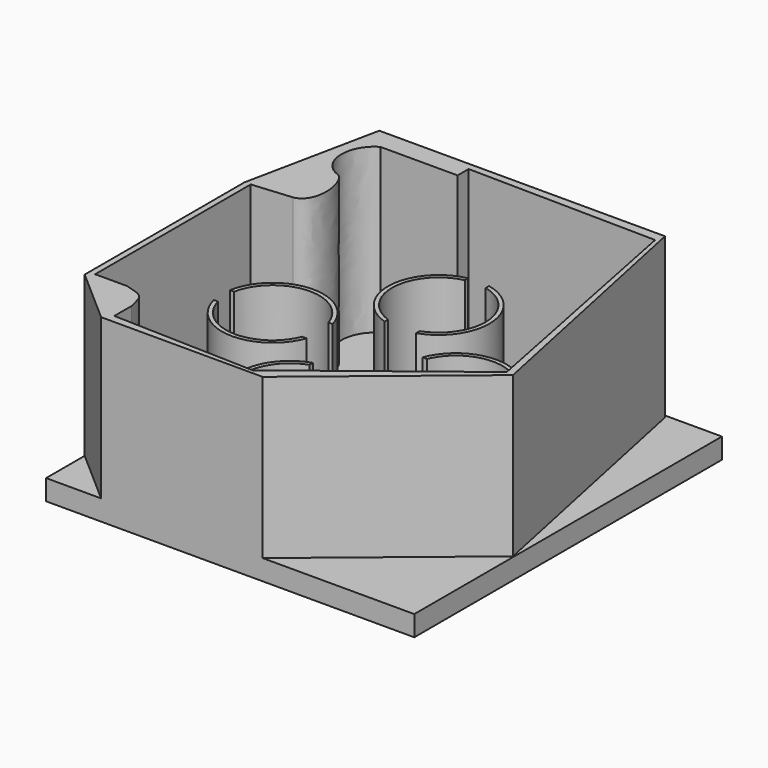
from build123d import *

# Parameters (mm, degrees)
F1_DEPTH  = 220
F3_W      = 450
F3_H      = 470
F4_DEPTH  = 25
F5_DEPTH  = 200
F6_R      = 53.5
F7_DEPTH  = 20
F6_R_2    = 62
F6_R_3    = 57
F8_DEPTH  = 154
F9_W      = 25.5
F9_H      = 90.3576454148
F9_W_2    = 90.3576454148
F9_H_2    = 25.5
F10_DEPTH = 175


with BuildPart() as f1:
    # F0 (on Top) → F1 (new body)
    with BuildSketch(Plane.XY):
        Polygon((-204.7800719738, 171.1511015892), (-238.562181592, 7.3397289511), (-238.562181592, -236.6909831762), (-171.305090189, -295.6561148167), (26.1666476727, -295.6561148167), (210.4326635599, -143.6366438866), (144.4040089846, 171.1511015892), align=None)
    extrude(amount=F1_DEPTH)

    # F3 (on Top) → F4 (join)
    with BuildSketch(Plane.XY):
        with Locations((-13.562181592, -60.6561148167)):
            Rectangle(F3_W, F3_H)
    extrude(amount=F4_DEPTH)

    # F2 (on face) → F5 (cut)
    with BuildSketch(Plane.XY.offset(220)):
        with BuildLine():
            Line((141.9471204281, 159.1738164425), (-88.6924937367, 162.5520288944))
            Line((-88.6924937367, 162.5520288944), (-88.6924937367, 145.6609666348))
            Line((-88.6924937367, 145.6609666348), (-182.9752624035, 145.6609666348))
            add(Edge.make_bspline(
                [(-182.9752624035, 145.6609666348), (-207.5440585613, 131.841018796), (-210.6151580811, 91.9167175889), (-182.9752624035, 77.1754458547)],
                knots=[0, 0, 0, 0, 68.4855207801, 68.4855207801, 68.4855207801, 68.4855207801], degree=3))
            add(Edge.make_bspline(
                [(-182.9752624035, 77.1754458547), (-164.8557782173, 75.025677681), (-155.0282537937, 17.2889921814), (-182.9752624035, 12.0681189001)],
                knots=[0, 0, 0, 0, 65.1073269546, 65.1073269546, 65.1073269546, 65.1073269546], degree=3))
            Line((-182.9752624035, 12.0681189001), (-231.1915457249, 7.7685844153))
            Line((-231.1915457249, 7.7685844153), (-231.1915457249, -229.9345582724))
            Line((-231.1915457249, -229.9345582724), (-191.8814480305, -229.9345582724))
            add(Edge.make_bspline(
                [(-191.8814480305, -229.9345582724), (-168.2339906693, -236.6909831762), (-168.2339906693, -236.6909831762), (-163.0131155252, -259.417116642)],
                knots=[0, 0, 0, 0, 41.2625964967, 41.2625964967, 41.2625964967, 41.2625964967], degree=3))
            Line((-163.0131155252, -259.417116642), (-163.0131155252, -285.8285903931))
            Line((-163.0131155252, -285.8285903931), (10.1969307289, -291.0494506359))
            Line((10.1969307289, -291.0494506359), (201.833575964, -142.4082070589))
            Line((201.833575964, -142.4082070589), (141.9471204281, 159.1738164425))
        make_face()
    extrude(amount=-F5_DEPTH, mode=Mode.SUBTRACT)

    # F6 (on Top) → F7 (cut, through all)
    with BuildSketch(Plane.XY):
        with Locations((-14.6330455318, 24.2691934109)):
            Circle(F6_R)
        with Locations((-128.4027075395, -87.3125935497)):
            Circle(F6_R)
        with Locations((-14.7721923306, -203.1711548904)):
            Circle(F6_R)
        with Locations((98.9974696771, -91.5893679298)):
            Circle(F6_R)
    extrude(amount=F7_DEPTH, mode=Mode.SUBTRACT)

    # F6 (on Top) → F8 (join)
    with BuildSketch(Plane.XY):
        with Locations((98.9974696771, -91.5893679298)):
            Circle(F6_R_2)
        with Locations((98.9974696771, -91.5893679298)):
            Circle(F6_R_3, mode=Mode.SUBTRACT)
        with Locations((-14.6330455318, 24.2691934109)):
            Circle(F6_R_2)
        with Locations((-14.6330455318, 24.2691934109)):
            Circle(F6_R_3, mode=Mode.SUBTRACT)
        with Locations((-128.4027075395, -87.3125935497)):
            Circle(F6_R_2)
        with Locations((-128.4027075395, -87.3125935497)):
            Circle(F6_R_3, mode=Mode.SUBTRACT)
        with Locations((-14.7721923306, -203.1711548904)):
            Circle(F6_R_2)
        with Locations((-14.7721923306, -203.1711548904)):
            Circle(F6_R_3, mode=Mode.SUBTRACT)
    extrude(amount=F8_DEPTH)

    # F9 (on face) → F10 (cut)
    with BuildSketch(Plane.XY.offset(220)):
        Polygon((-14.3728665248, -89.0469396694), (4.8721171106, -89.0469396694), (4.8821498398, -89.0469396694), (4.8821498398, -69.801956034), (-14.3728665248, -69.801956034), align=None)
        Polygon((4.8721171106, -108.301956034), (4.8721171106, -89.0469396694), (-14.3728665248, -89.0469396694), (-14.3728665248, -108.2919233048), (-14.3728665248, -108.301956034), align=None)
        Polygon((4.8821498398, -89.0469396694), (4.8721171106, -89.0469396694), (4.8721171106, -108.301956034), (89.2823901994, -108.301956034), (89.2823901994, -101.801956034), (89.2823901994, -76.301956034), (89.2823901994, -69.801956034), (4.8821498398, -69.801956034), align=None)
        Polygon((-14.3728665248, -108.2919233048), (-14.3728665248, -89.0469396694), (-33.6178501602, -89.0469396694), (-33.6278828894, -89.0469396694), (-33.6278828894, -108.2919233048), align=None)
        Polygon((-33.6178501602, -89.0469396694), (-14.3728665248, -89.0469396694), (-14.3728665248, -69.801956034), (-14.3728665248, -69.7919233048), (-33.6178501602, -69.7919233048), align=None)
        Polygon((4.8721171106, -192.7021963936), (4.8721171106, -108.301956034), (-14.3728665248, -108.301956034), (-14.3728665248, -108.2919233048), (-33.6278828894, -108.2919233048), (-33.6278828894, -192.7021963936), (-27.1278828894, -192.7021963936), (-1.6278828894, -192.7021963936), align=None)
        Polygon((-14.3728665248, -69.801956034), (4.8821498398, -69.801956034), (4.8821498398, 14.6083170548), (-1.6178501602, 14.6083170548), (-27.1178501602, 14.6083170548), (-33.6178501602, 14.6083170548), (-33.6178501602, -69.7919233048), (-14.3728665248, -69.7919233048), align=None)
        Polygon((-33.6278828894, -89.0469396694), (-33.6178501602, -89.0469396694), (-33.6178501602, -69.7919233048), (-118.028123249, -69.7919233048), (-118.028123249, -76.2919233048), (-118.028123249, -101.7919233048), (-118.028123249, -108.2919233048), (-33.6278828894, -108.2919233048), align=None)
        with Locations((-14.3778828894, -237.881019101)):
            Rectangle(F9_W, F9_H)
        with Locations((134.4612129068, -89.051956034)):
            Rectangle(F9_W_2, F9_H_2)
        with Locations((-14.3678501602, 59.7871397622)):
            Rectangle(F9_W, F9_H)
        with Locations((-163.2069459564, -89.0419233048)):
            Rectangle(F9_W_2, F9_H_2)
    extrude(amount=-F10_DEPTH, mode=Mode.SUBTRACT)


solid = f1.part
